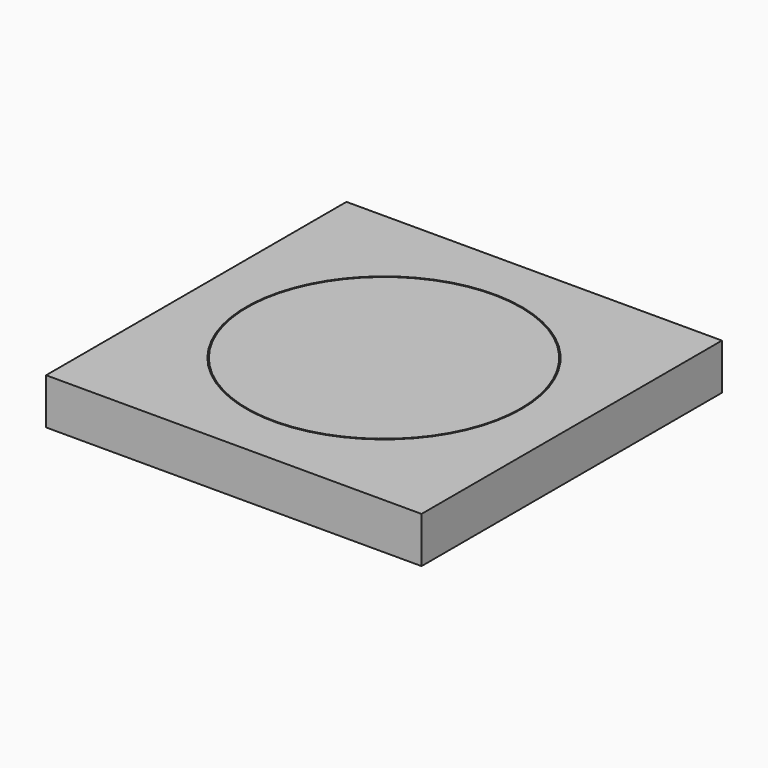
from build123d import *

# Parameters (mm, degrees)
F0_R     = 30
F0_R_2   = 29.76
F1_DEPTH = 9.76
F0_W     = 81.6731601419
F0_H     = 81.6731601419
F2_DEPTH = 10


with BuildPart() as f1:
    # F0 (on Top) → F1 (new body)
    with BuildSketch(Plane.XY):
        Circle(F0_R)
        Circle(F0_R_2, mode=Mode.SUBTRACT)
    extrude(amount=F1_DEPTH)

    # F0 (on Top) → F2 (join)
    with BuildSketch(Plane.XY):
        Rectangle(F0_W, F0_H)
        Circle(F0_R, mode=Mode.SUBTRACT)
        Circle(F0_R_2)
    extrude(amount=F2_DEPTH)


solid = f1.part
